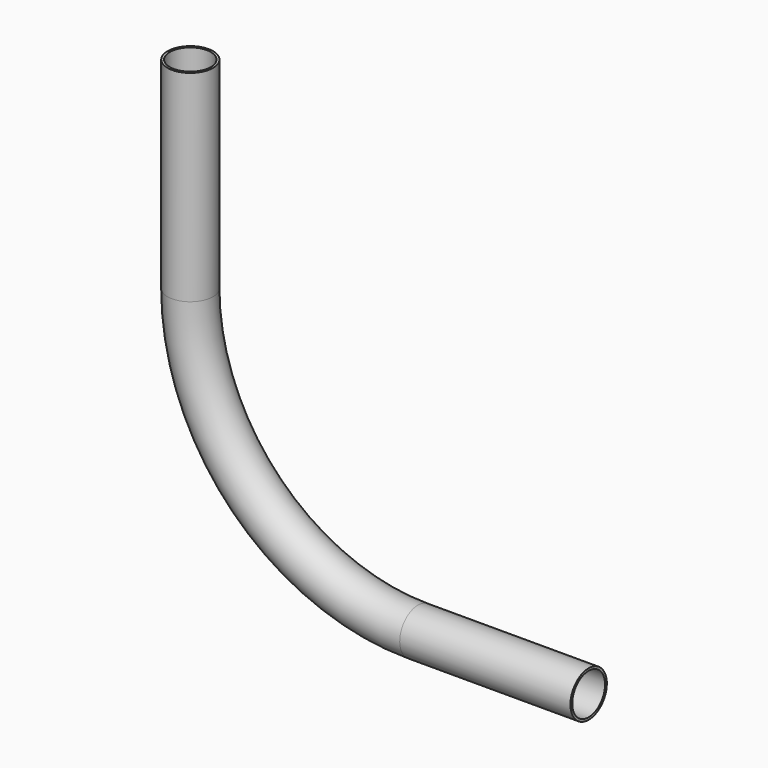
from build123d import *

# Parameters (mm, degrees)
F2_R   = 20
F2_R_2 = 18


with BuildPart() as f3:
    # F3: sweep along a path in F0
    with BuildLine(Plane.XZ) as f3_path:
        Line((0, 377), (0, 200))
        ThreePointArc((0, 200), (58.578644, 58.578644), (200, 0))
        Line((200, 0), (350, 0))
    # F2 (on plane+point) → F3 (sweep)
    with BuildSketch(Plane.XY.offset(377)):
        Circle(F2_R)
        Circle(F2_R_2, mode=Mode.SUBTRACT)
    sweep(path=f3_path.line)


solid = f3.part
